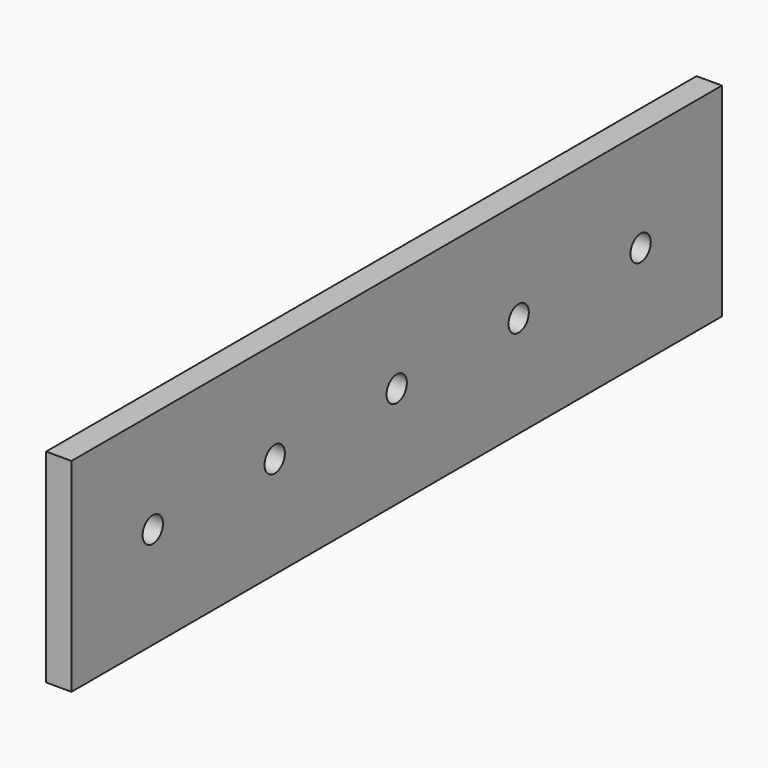
from build123d import *

# Parameters (mm, degrees)
F0_W     = 203.2
F0_H     = 50.8
F0_R     = 3.175
F1_DEPTH = 6.35


with BuildPart() as f1:
    # F0 (on Right) → F1 (new body)
    with BuildSketch(Plane.YZ):
        Rectangle(F0_W, F0_H)
        with Locations((-76.2, 0)):
            Circle(F0_R, mode=Mode.SUBTRACT)
        with Locations((-38.1, 0)):
            Circle(F0_R, mode=Mode.SUBTRACT)
        Circle(F0_R, mode=Mode.SUBTRACT)
        with Locations((38.1, 0)):
            Circle(F0_R, mode=Mode.SUBTRACT)
        with Locations((76.2, 0)):
            Circle(F0_R, mode=Mode.SUBTRACT)
    extrude(amount=F1_DEPTH)


solid = f1.part
